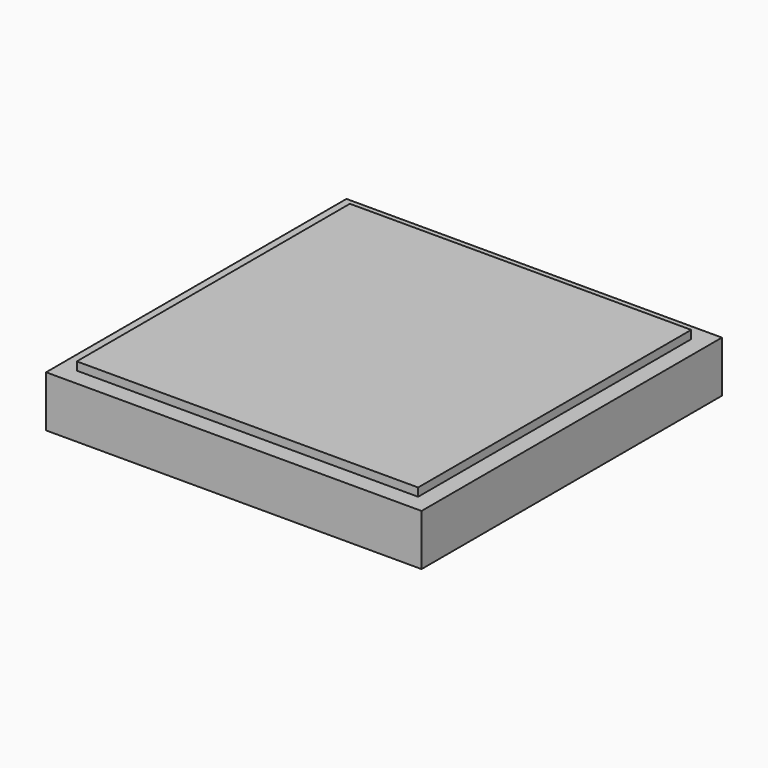
from build123d import *

# Parameters (mm, degrees)
F0_W      = 127
F0_H      = 127
F1_DEPTH  = 6.35
F4_DEPTH  = 0.254
F6_W      = 25.146
F6_H      = 3.175
F7_DEPTH  = 0.254
F9_DEPTH  = 3.048
F10_W     = 12.7
F10_H     = 12.7
F10_R     = 3.4925
F11_DEPTH = 2.54
F12_W     = 139.6999998465
F12_H     = 139.6999998465
F12_W_2   = 127
F12_H_2   = 127
F13_DEPTH = 12.7
F15_W     = 139.6999998465
F15_H     = 139.6999998465
F16_DEPTH = 6.35
F18_R     = 2.38125
F19_DEPTH = 25.4


with BuildPart() as f1:
    # F0 (on Top) → F1 (new body)
    with BuildSketch(Plane.XY):
        with Locations((63.5, 63.5)):
            Rectangle(F0_W, F0_H)
    extrude(amount=F1_DEPTH)


with BuildPart() as f4:
    # F3 (on offset) → F4 (new body, symmetric)
    with BuildSketch(Plane.YZ.offset(63.5)):
        Polygon((88.9, 0), (38.1, 0), (38.1, -3.81), (63.246, -3.81), (63.246, -0.635), (63.754, -0.635), (63.754, -3.81), (88.9, -3.81), align=None)
    extrude(amount=F4_DEPTH, both=True)


with BuildPart() as f7:
    # F6 (on offset) → F7 (new body, symmetric)
    with BuildSketch(Plane.XZ.offset(-63.5)):
        with Locations((76.327, -1.5875)):
            Rectangle(F6_W, F6_H)
    extrude(amount=F7_DEPTH, both=True)


with BuildPart() as f7b:
    # F6 (on offset) → F7, piece 2 (new body, symmetric)
    with BuildSketch(Plane.XZ.offset(-63.5)):
        with Locations((50.673, -1.5875)):
            Rectangle(F6_W, F6_H)
    extrude(amount=F7_DEPTH, both=True)


with BuildPart() as f9:
    # F8 (on face) → F9 (new body)
    with BuildSketch(Plane(origin=(0, 0, -3.81), x_dir=(1, 0, 0), z_dir=(0, 0, -1))):
        with BuildLine():
            Line((63.754, -63.246), (63.754, -60.0167650312))
            ThreePointArc((63.754, -60.0167650312), (63.5000005977, -60.0075000073), (63.246, -60.0167322023))
            Line((63.246, -60.0167322023), (63.246, -63.246))
            Line((63.246, -63.246), (63.754, -63.246))
        make_face()
        with BuildLine():
            ThreePointArc((63.246, -60.0167322023), (61.1216193726, -66.0577201845), (66.992274899, -63.5))
            ThreePointArc((66.992274899, -63.5), (66.0576487637, -61.1220097682), (63.754, -60.0167650312))
            Line((63.754, -60.0167650312), (63.754, -63.246))
            Line((63.754, -63.246), (63.246, -63.246))
            Line((63.246, -63.246), (63.246, -60.0167322023))
        make_face()
    extrude(amount=F9_DEPTH)

    # F10 (on face) → F11 (join)
    with BuildSketch(Plane(origin=(0, 0, -6.858), x_dir=(1, 0, 0), z_dir=(0, 0, -1))):
        with Locations((63.499774899, -63.5)):
            Rectangle(F10_W, F10_H)
        with Locations((63.499774899, -63.5)):
            Circle(F10_R, mode=Mode.SUBTRACT)
        with Locations((63.499774899, -63.5)):
            Circle(F10_R)
    extrude(amount=F11_DEPTH)


with BuildPart() as f13:
    # F12 (on face) → F13 (new body)
    with BuildSketch(Plane(origin=(0, 0, -9.398), x_dir=(1, 0, 0), z_dir=(0, 0, -1))):
        with Locations((63.5, -63.5)):
            Rectangle(F12_W, F12_H)
        with Locations((63.5, -63.5)):
            Rectangle(F12_W_2, F12_H_2, mode=Mode.SUBTRACT)
    extrude(amount=-F13_DEPTH)

    # F15 (on face) → F16 (join)
    with BuildSketch(Plane(origin=(0, 0, -9.398), x_dir=(1, 0, 0), z_dir=(0, 0, -1))):
        with Locations((63.5, -63.5)):
            Rectangle(F15_W, F15_H)
    extrude(amount=F16_DEPTH)

    # F18 (on face) → F19 (cut)
    with BuildSketch(Plane(origin=(-6.3499999233, 0, 0), x_dir=(0, -1, 0), z_dir=(-1, 0, 0))):
        with Locations((-63.5, -6.6156850821)):
            Circle(F18_R)
    extrude(amount=-F19_DEPTH, mode=Mode.SUBTRACT)


solid = Compound([f1.part, f4.part, f7.part, f7b.part, f9.part, f13.part])
